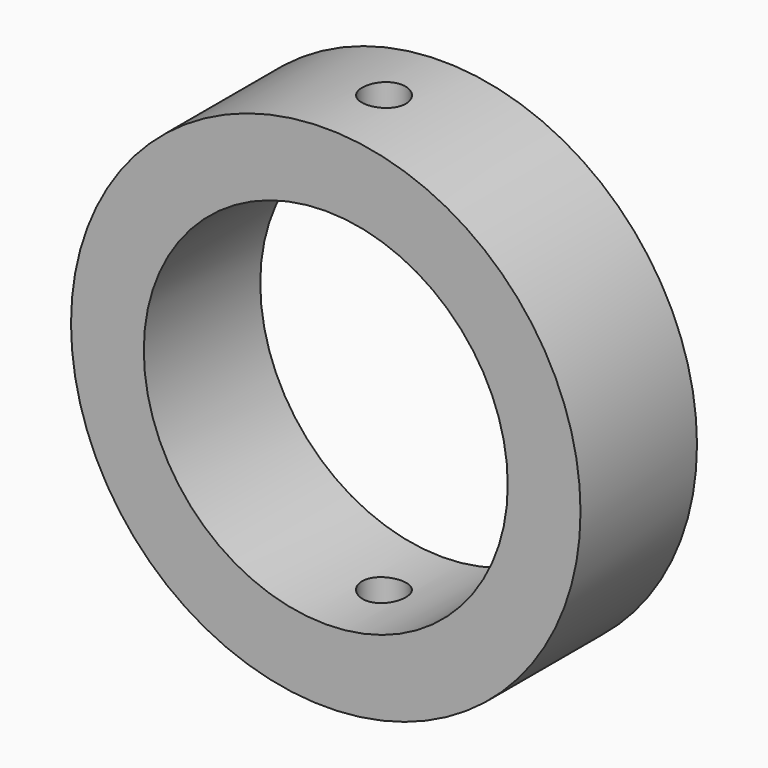
from build123d import *

# Parameters (mm, degrees)
F0_R     = 350
F0_R_2   = 250
F1_DEPTH = 200
F2_R     = 30
F3_DEPTH = 500


with BuildPart() as f1:
    # F0 (on Front) → F1 (new body)
    with BuildSketch(Plane.XZ):
        Circle(F0_R)
        Circle(F0_R_2, mode=Mode.SUBTRACT)
    extrude(amount=F1_DEPTH)

    # F2 (on Top) → F3 (cut, symmetric)
    with BuildSketch(Plane.XY):
        with Locations((0, -100)):
            Circle(F2_R)
    extrude(amount=F3_DEPTH, both=True, mode=Mode.SUBTRACT)


solid = f1.part
